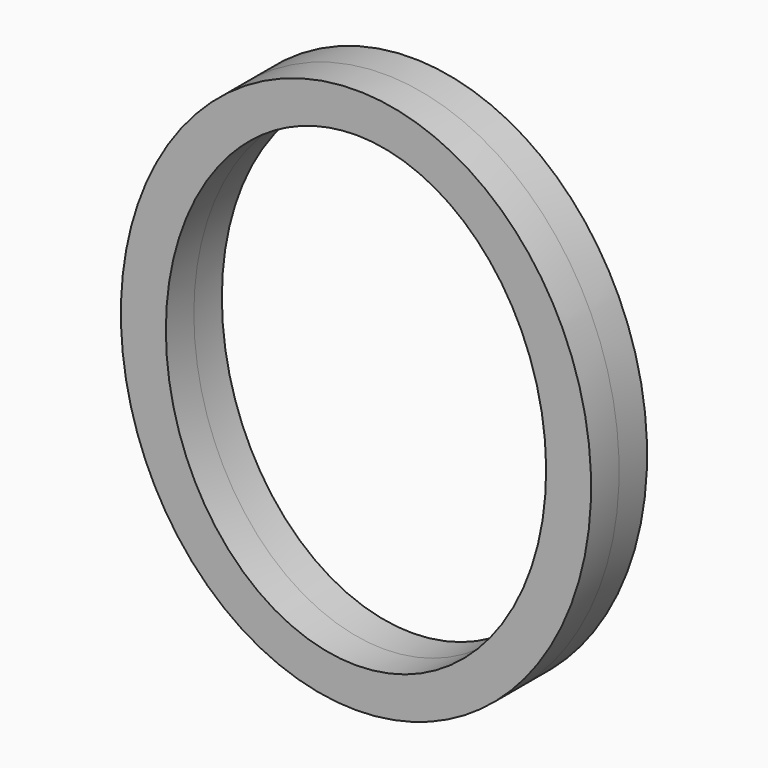
from build123d import *

# Parameters (mm, degrees)
F1_DEPTH = 6.35


with BuildPart() as f1:
    # F0 (on Front) → F1 (new body, symmetric)
    with BuildSketch(Plane.XZ):
        with BuildLine():
            add(Edge.make_bspline(
                [(0, -49.519747), (73.882033, -49.519747), (36.941017, 24.759874), (0, 99.039495), (-36.941017, 24.759874), (-73.882033, -49.519747), (0, -49.519747)],
                knots=[0, 0, 0, 2.094395, 2.094395, 4.18879, 4.18879, 6.283185, 6.283185, 6.283185], degree=2, weights=[1, 0.5, 1, 0.5, 1, 0.5, 1]))
        make_face()
        with BuildLine():
            add(Edge.make_bspline(
                [(0, -42.357504), (59.75062, -42.357504), (29.87531, 21.178752), (0, 84.715009), (-29.87531, 21.178752), (-59.75062, -42.357504), (0, -42.357504)],
                knots=[0, 0, 0, 2.094395, 2.094395, 4.18879, 4.18879, 6.283185, 6.283185, 6.283185], degree=2, weights=[1, 0.5, 1, 0.5, 1, 0.5, 1]))
        make_face(mode=Mode.SUBTRACT)
    extrude(amount=F1_DEPTH, both=True)


solid = f1.part
